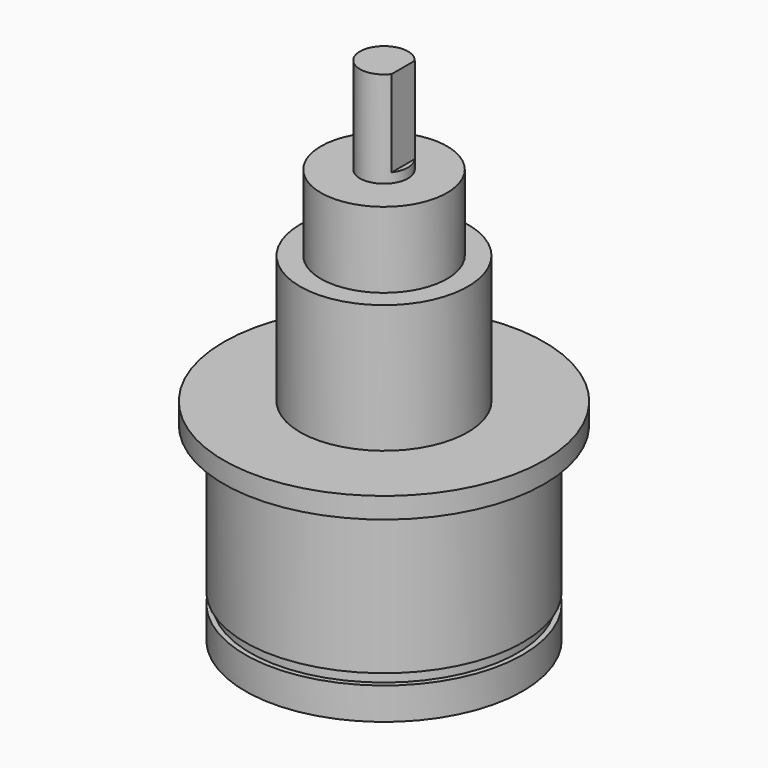
from build123d import *

# Parameters (mm, degrees)
F3_W     = 9.525
F3_H     = 17.145
F4_DEPTH = 27.941


with BuildPart() as f1:
    # F0 (on Front) → F1 (revolve)
    with BuildSketch(Plane.XZ):
        Polygon((0, -69.3275), (0, 0), (-4.7625, 0), (-4.7625, -19.05), (-12.5, -19.05), (-12.5, -34.05), (-16.6275, -34.05), (-16.6275, -59.45), (-31.75, -59.45), (-31.75, -63.5775), (-27.5, -63.5775), (-27.5, -92.5775), (-26.5, -92.5775), (-26.5, -94.7275), (-27.5, -94.7275), (-27.5, -101.0775), (-20.32, -101.0775), (-20.32, -69.3275), align=None)
    revolve(axis=Axis((0, 0, -34.66375), (0, 0, 1)))

    # F3 (on offset) → F4 (cut, through all)
    with BuildSketch(Plane.YZ.offset(3.81)):
        with Locations((0, -8.5725)):
            Rectangle(F3_W, F3_H)
    extrude(amount=F4_DEPTH, mode=Mode.SUBTRACT)


solid = f1.part
